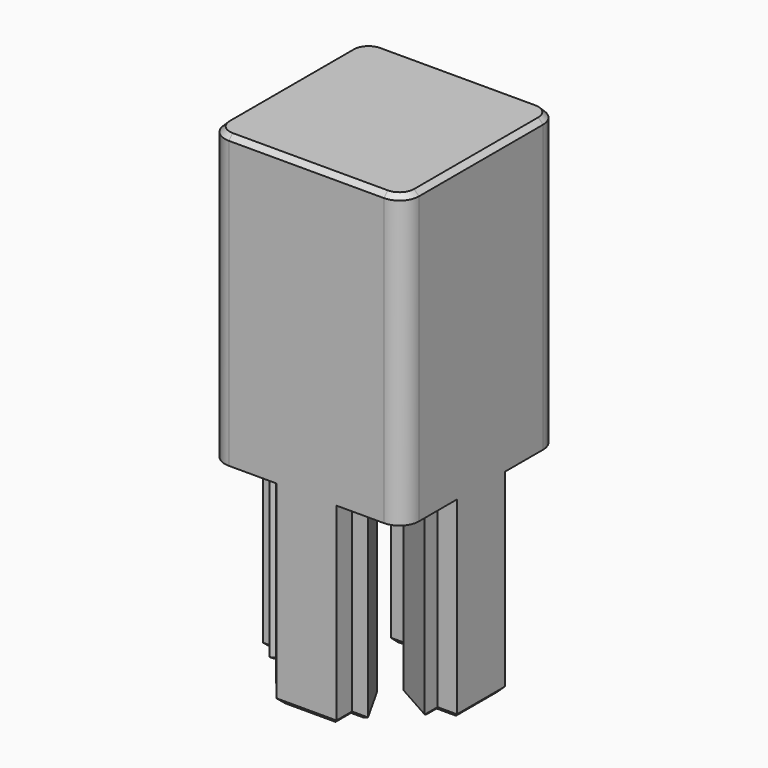
from build123d import *

# Parameters (mm, degrees)
SKETCH001_W           = 20
SKETCH001_H           = 20
PAD_DEPTH             = 30
PAD001_DEPTH          = 20
POLARPATTERN_COUNT    = 4
FILLET_R              = 2
CHAMFER_SIZE          = 0.5
SKETCH003_W           = 20
SKETCH003_H           = 20
PAD002_DEPTH          = 30
PAD003_DEPTH          = 20
POLARPATTERN001_COUNT = 4
FILLET001_R           = 2
CHAMFER001_SIZE       = 0.5


with BuildPart() as f_6mm:
    # Sketch001 → Pad (new body)
    with BuildSketch(Plane.XY):
        Rectangle(SKETCH001_W, SKETCH001_H)
    extrude(amount=PAD_DEPTH)

    # Sketch → Pad001 (join)
    with BuildSketch(Plane.XY):
        Polygon((-2.5, 4), (2.5, 4), (4.75, 8), (3, 8), (3, 10), (-3, 10), (-3, 8), (-4.75, 8), align=None)
    pad001 = extrude(amount=-PAD001_DEPTH)

    # PolarPattern: Pad001 ×4 about axis
    polarpattern_axis = Axis((0, 0, 0), (0, 0, 1))
    for i in range(1, POLARPATTERN_COUNT):
        add(pad001.rotate(polarpattern_axis, i * 360 / POLARPATTERN_COUNT))

    # Fillet
    fillet_edges = [f_6mm.edges().sort_by_distance(p)[0] for p in [
        (-10, 10, 15),
        (10, 10, 15),
        (10, -10, 15),
        (-10, -10, 15),
    ]]
    fillet(fillet_edges, radius=FILLET_R)

    # Chamfer
    chamfer_edges = [f_6mm.edges().sort_by_distance(p)[0] for p in [
        (0, 10, 30),
        (-9.414214, 9.414214, 30),
        (9.414214, 9.414214, 30),
        (-10, 0, 30),
        (10, 0, 30),
        (-9.414214, -9.414214, 30),
        (9.414214, -9.414214, 30),
        (0, -10, 30),
        (0, 4, -20),
        (3.625, 6, -20),
        (3.875, 8, -20),
        (3, 9, -20),
        (0, 10, -20),
        (-3, 9, -20),
        (-3.875, 8, -20),
        (-3.625, 6, -20),
        (4, 0, -20),
        (6, -3.625, -20),
        (8, -3.875, -20),
        (9, -3, -20),
        (10, 0, -20),
        (9, 3, -20),
        (8, 3.875, -20),
        (6, 3.625, -20),
        (0, -4, -20),
        (-3.625, -6, -20),
        (-3.875, -8, -20),
        (-3, -9, -20),
        (0, -10, -20),
        (3, -9, -20),
        (3.875, -8, -20),
        (3.625, -6, -20),
        (-4, 0, -20),
        (-6, 3.625, -20),
        (-8, 3.875, -20),
        (-9, 3, -20),
        (-10, 0, -20),
        (-9, -3, -20),
        (-8, -3.875, -20),
        (-6, -3.625, -20),
    ]]
    chamfer(chamfer_edges, length=CHAMFER_SIZE)


with BuildPart() as f_6_2mm:
    # Sketch003 → Pad002 (new body)
    with BuildSketch(Plane.XY):
        Rectangle(SKETCH003_W, SKETCH003_H)
    extrude(amount=PAD002_DEPTH)

    # Sketch002 → Pad003 (join)
    with BuildSketch(Plane.XY):
        Polygon((-2.5, 4), (2.5, 4), (4.75, 8), (3.1, 8), (3.1, 10), (-3.1, 10), (-3.1, 8), (-4.75, 8), align=None)
    pad003 = extrude(amount=-PAD003_DEPTH)

    # PolarPattern001: Pad003 ×4 about axis
    polarpattern001_axis = Axis((0, 0, 0), (0, 0, 1))
    for i in range(1, POLARPATTERN001_COUNT):
        add(pad003.rotate(polarpattern001_axis, i * 360 / POLARPATTERN001_COUNT))

    # Fillet001
    fillet001_edges = [f_6_2mm.edges().sort_by_distance(p)[0] for p in [
        (-10, 10, 15),
        (10, 10, 15),
        (10, -10, 15),
        (-10, -10, 15),
    ]]
    fillet(fillet001_edges, radius=FILLET001_R)

    # Chamfer001
    chamfer001_edges = [f_6_2mm.edges().sort_by_distance(p)[0] for p in [
        (0, 10, 30),
        (-9.414214, 9.414214, 30),
        (9.414214, 9.414214, 30),
        (-10, 0, 30),
        (10, 0, 30),
        (-9.414214, -9.414214, 30),
        (9.414214, -9.414214, 30),
        (0, -10, 30),
        (0, 4, -20),
        (3.625, 6, -20),
        (3.925, 8, -20),
        (3.1, 9, -20),
        (0, 10, -20),
        (-3.1, 9, -20),
        (-3.925, 8, -20),
        (-3.625, 6, -20),
        (4, 0, -20),
        (6, -3.625, -20),
        (8, -3.925, -20),
        (9, -3.1, -20),
        (10, 0, -20),
        (9, 3.1, -20),
        (8, 3.925, -20),
        (6, 3.625, -20),
        (0, -4, -20),
        (-3.625, -6, -20),
        (-3.925, -8, -20),
        (-3.1, -9, -20),
        (0, -10, -20),
        (3.1, -9, -20),
        (3.925, -8, -20),
        (3.625, -6, -20),
        (-4, 0, -20),
        (-6, 3.625, -20),
        (-8, 3.925, -20),
        (-9, 3.1, -20),
        (-10, 0, -20),
        (-9, -3.1, -20),
        (-8, -3.925, -20),
        (-6, -3.625, -20),
    ]]
    chamfer(chamfer001_edges, length=CHAMFER001_SIZE)


solid = Compound([f_6mm.part, f_6_2mm.part])
